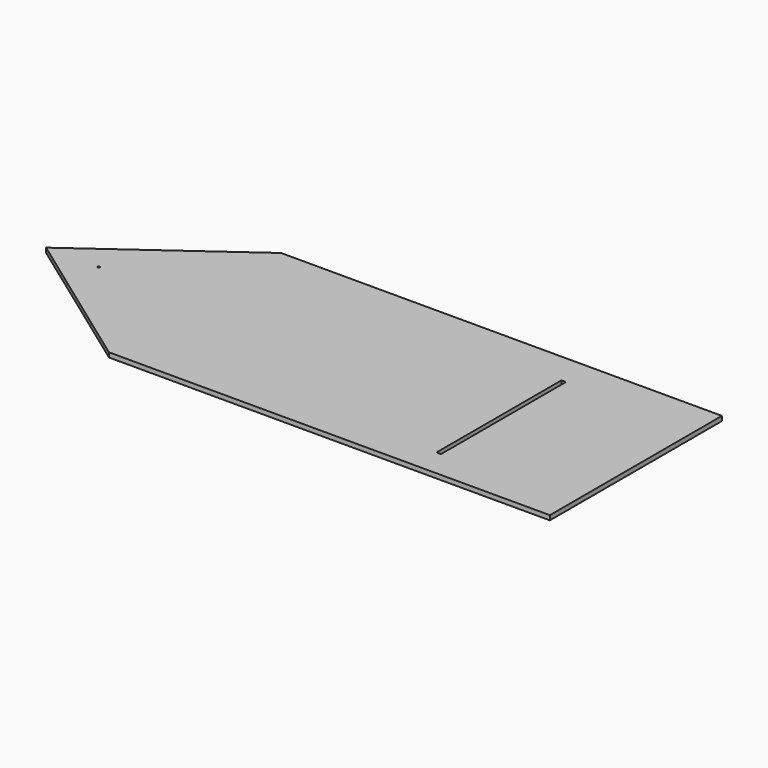
from build123d import *

# Parameters (mm, degrees)
F0_W     = 12.446
F0_H     = 431.8
F0_R     = 3.175
F1_DEPTH = 12.7


with BuildPart() as f1:
    # F0 (on Top) → F1 (new body)
    with BuildSketch(Plane.XY):
        Polygon((602.978926, 190.381889), (-616.221074, 190.381889), (-1028.069377, -107.015111), (-616.221074, -404.412111), (602.978926, -404.412111), align=None)
        with Locations((234.867118, -112.431925)):
            Rectangle(F0_W, F0_H, mode=Mode.SUBTRACT)
        with Locations((-882.655084, -107.015111)):
            Circle(F0_R, mode=Mode.SUBTRACT)
    extrude(amount=F1_DEPTH)


solid = f1.part
